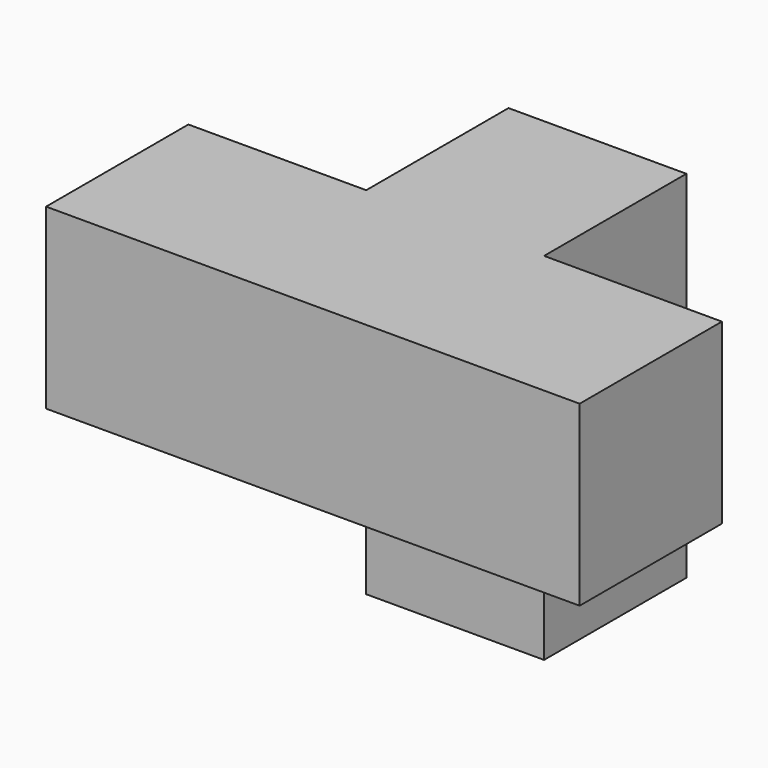
from build123d import *

# Parameters (mm, degrees)
F0_W     = 25.4
F0_H     = 25.4
F1_DEPTH = 25.4
F2_DEPTH = 25.4


with BuildPart() as f1:
    # F0 (on Top) → F1 (new body)
    with BuildSketch(Plane.XY):
        with Locations((12.7, 12.7)):
            Rectangle(F0_W, F0_H)
        with Locations((38.1, 12.7)):
            Rectangle(F0_W, F0_H)
        with Locations((63.5, 12.7)):
            Rectangle(F0_W, F0_H)
        with Locations((38.1, 38.1)):
            Rectangle(F0_W, F0_H)
    extrude(amount=F1_DEPTH)

    # F0 (on Top) → F2 (join)
    with BuildSketch(Plane.XY):
        with Locations((38.1, 38.1)):
            Rectangle(F0_W, F0_H)
    extrude(amount=-F2_DEPTH)


solid = f1.part
